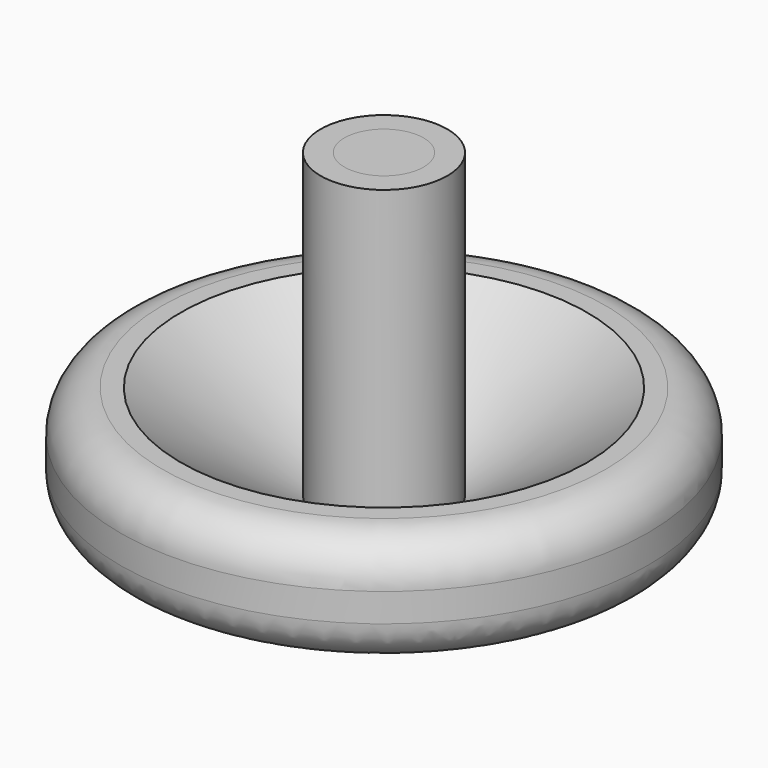
from build123d import *

# Parameters (mm, degrees)
F2_R      = 5.08
F3_R      = 25.4
F4_R      = 4.7625
F5_DEPTH  = 9.525
F6_R      = 1.5875
F7_DEPTH  = 9.525
F5_FACE_R = 4.7625
F8_DEPTH  = 9.525
F9_DEPTH  = 24.892


with BuildPart() as f1:
    # F0 (on Front) → F1 (revolve)
    with BuildSketch(Plane.XZ):
        Polygon((10.500061, 4.015946), (31.75, 8.134865), (31.75, 20.834865), (24.443309, 20.834865), (7.62, 9.438433), (7.62, 45.72), (0, 45.72), (0, 0), (1.5875, 0), align=None)
    revolve(axis=Axis((0, 0, 22.86), (0, 0, -1)))

    # F2
    f2_edges = [f1.edges().sort_by_distance(p)[0] for p in [
        (-31.75, 0, 8.134865),
        (-31.75, 0, 20.834865),
        (31.75, 0, 14.484865),
    ]]
    fillet(f2_edges, radius=F2_R)

    # F3
    f3_edges = [f1.edges().sort_by_distance(p)[0] for p in [
        (-10.500061, 0, 4.015946),
    ]]
    fillet(f3_edges, radius=F3_R)

    # F4 (on face) → F5 (cut)
    with BuildSketch(Plane.XY.offset(45.72)):
        Circle(F4_R)
    extrude(amount=-F5_DEPTH, mode=Mode.SUBTRACT)

    # F6 (on Top) → F7 (cut)
    with BuildSketch(Plane.XY):
        Circle(F6_R)
    extrude(amount=F7_DEPTH, mode=Mode.SUBTRACT)

    # F5_face (on face) → F9 (cut)
    with BuildSketch(Plane.XY.offset(36.195)):
        Circle(F5_FACE_R)
    extrude(amount=-F9_DEPTH, mode=Mode.SUBTRACT)


with BuildPart() as f8:
    # F5_face (on face) → F8 (new body)
    with BuildSketch(Plane.XY.offset(36.195)):
        Circle(F5_FACE_R)
    extrude(amount=F8_DEPTH)


solid = Compound([f1.part, f8.part])
